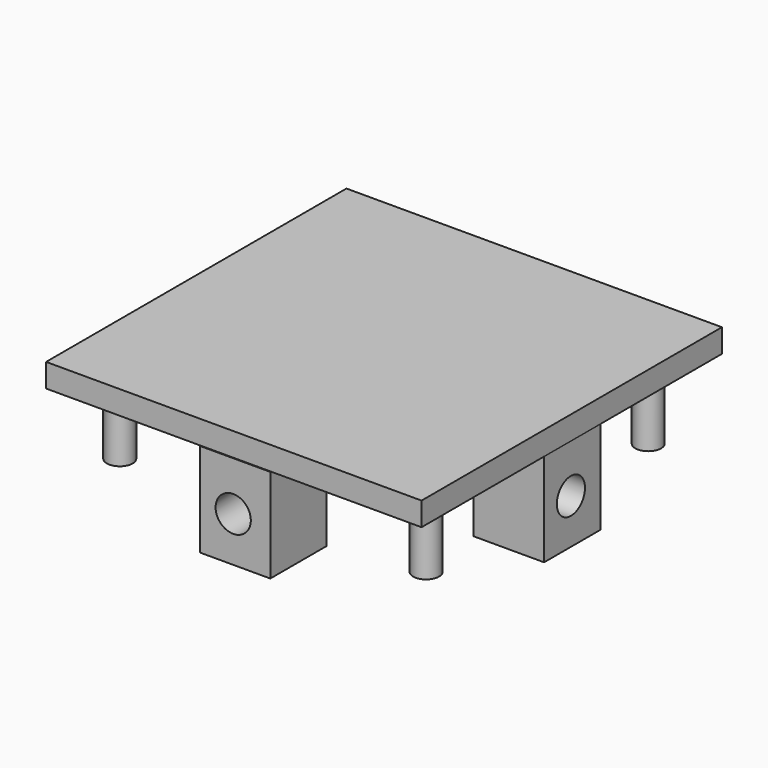
from build123d import *

# Parameters (mm, degrees)
F0_W      = 80
F0_H      = 80
F1_DEPTH  = 5
F2_W      = 15
F2_H      = 15
F3_DEPTH  = 20
F6_D      = 7.5
F9_D      = 7.5
F10_R     = 2.75
F11_DEPTH = 15


with BuildPart() as f1:
    # F0 (on Top) → F1 (new body)
    with BuildSketch(Plane.XY):
        Rectangle(F0_W, F0_H)
    extrude(amount=F1_DEPTH)

    # F2 (on Top) → F3 (join)
    with BuildSketch(Plane.XY):
        with Locations((-32.3208275437, 0.3642106242)):
            Rectangle(F2_W, F2_H)
        with Locations((32.3208275437, 0.3642106242)):
            Rectangle(F2_W, F2_H)
        with Locations((0.3983431309, -32.6577353477)):
            Rectangle(F2_W, F2_H)
        with Locations((0.3983431309, 32.6577353477)):
            Rectangle(F2_W, F2_H)
    extrude(amount=-F3_DEPTH)

    # F6 (through all)
    with Locations(Plane.XZ.offset(41.1)):
        with Locations((0, -10.4419896379)):
            Hole(F6_D / 2)

    # F9 (through all)
    with Locations(Plane.YZ.offset(59.3)):
        with Locations((0, -10.4419896379)):
            Hole(F9_D / 2)

    # F10 (on Top) → F11 (join)
    with BuildSketch(Plane.XY):
        with Locations((-32.6312184334, 29.5856371522)):
            Circle(F10_R)
        with Locations((32.6312184334, 29.5856371522)):
            Circle(F10_R)
        with Locations((32.6312184334, -29.5856371522)):
            Circle(F10_R)
        with Locations((-32.6312184334, -29.5856371522)):
            Circle(F10_R)
    extrude(amount=-F11_DEPTH)


solid = f1.part
